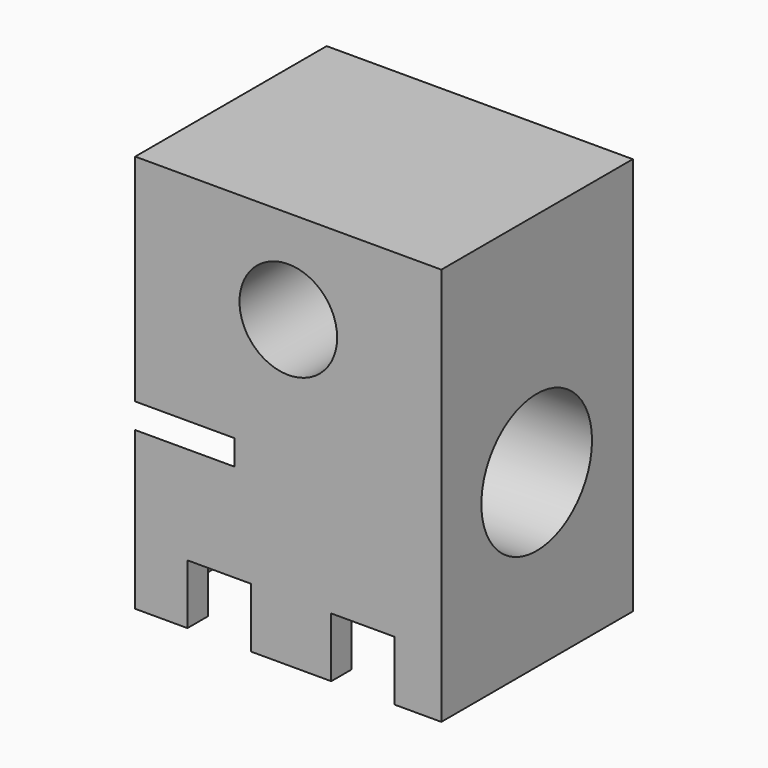
from build123d import *

# Parameters (mm, degrees)
F0_W          = 7.6891479548
F0_H          = 6.0103421565
F1_DEPTH      = 10
F2_W          = 1.6820132732
F2_H          = 1.2127011675
F2_W_2        = 1.5973832924
F2_H_2        = 1.5515421644
F2_W_3        = 1.5004627639
F2_W_4        = 1.5929426299
F3_DEPTH      = 1.5
F4_R          = 1.7372427754
F5_DEPTH      = 25
F5_DEPTH_BACK = 25
F6_R          = 1.2262394043
F7_DEPTH      = 25
F7_DEPTH_BACK = 25
F8_R          = 1.7372427754
F9_DEPTH      = 2.5


with BuildPart() as f1:
    # F0 (on Top) → F1 (new body)
    with BuildSketch(Plane.XY):
        with Locations((-0.0009319047, 0.0121527119)):
            Rectangle(F0_W, F0_H)
    extrude(amount=F1_DEPTH)

    # F2 (on Top) → F3 (cut)
    with BuildSketch(Plane.XY):
        Polygon((-2.6183645241, 2.35), (-3.7, 2.35), (-3.7, -2.35), (-2.5337345432, -2.35), (-0.9363512509, -2.35), (1.0780681623, -2.35), (2.6710107923, -2.35), (3.7, -2.35), (3.7, 2.35), (2.6710107923, 2.35), (1.1705480283, 2.35), (-0.9363512509, 2.35), align=None)
        with Locations((-1.7773578875, 2.9563505838)):
            Rectangle(F2_W, F2_H)
        with Locations((-1.7350428971, -3.1257710822)):
            Rectangle(F2_W_2, F2_H_2)
        with Locations((1.9207794103, 2.9563505838)):
            Rectangle(F2_W_3, F2_H)
        with Locations((1.8745394773, -3.1257710822)):
            Rectangle(F2_W_4, F2_H_2)
    extrude(amount=F3_DEPTH, mode=Mode.SUBTRACT)

    # F4 (on Right) → F5 (cut, two sides)
    with BuildSketch(Plane.YZ) as f5_sk:
        with Locations((0, 4.3023279868)):
            Circle(F4_R)
    extrude(amount=-F5_DEPTH, mode=Mode.SUBTRACT)
    extrude(f5_sk.sketch, amount=F5_DEPTH_BACK, mode=Mode.SUBTRACT)

    # F6 (on Front) → F7 (cut, two sides)
    with BuildSketch(Plane.XZ) as f7_sk:
        with Locations((0, 7.6466021128)):
            Circle(F6_R)
    extrude(amount=F7_DEPTH, mode=Mode.SUBTRACT)
    extrude(f7_sk.sketch, amount=-F7_DEPTH_BACK, mode=Mode.SUBTRACT)

    # F8 (on face) → F9 (cut)
    with BuildSketch(Plane(origin=(-3.8455058821, 0, 0), x_dir=(0, -1, 0), z_dir=(-1, 0, 0))):
        Polygon((2.9930183664, 4.5848923734), (1.6247780807, 7.0305929156), (-1.5503576963, 7.0735595446), (-3.0173237901, 4.6102864409), (-3.0173237901, 4.0632090305), (-1.6247780807, 1.574063058), (1.5503576963, 1.531096429), (2.9930183664, 3.953556799), align=None)
        with Locations((0, 4.3023279868)):
            Circle(F8_R, mode=Mode.SUBTRACT)
    extrude(amount=-F9_DEPTH, mode=Mode.SUBTRACT)


solid = f1.part
